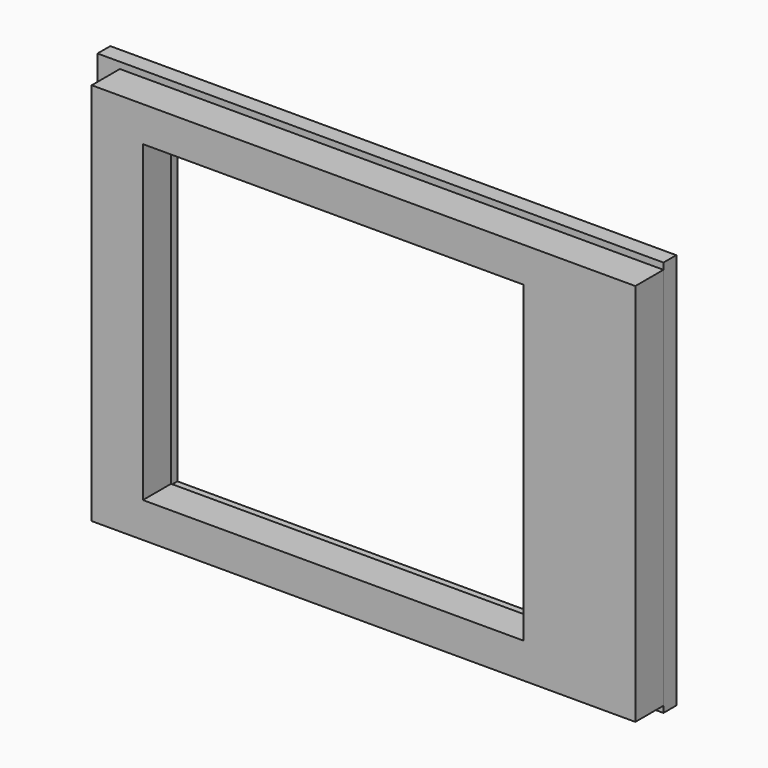
from build123d import *

# Parameters (mm, degrees)
F0_W     = 170
F0_H     = 120
F0_W_2   = 119
F0_H_2   = 98
F1_DEPTH = 11
F2_W     = 170
F2_H     = 124
F2_W_2   = 123
F2_H_2   = 102
F2_W_3   = 7
F3_DEPTH = 5


with BuildPart() as f1:
    # F0 (on Front) → F1 (new body)
    with BuildSketch(Plane.XZ):
        with Locations((9.5, 0)):
            Rectangle(F0_W, F0_H)
        Rectangle(F0_W_2, F0_H_2, mode=Mode.SUBTRACT)
    extrude(amount=F1_DEPTH)


with BuildPart() as f3:
    # F2 (on Front) → F3 (new body)
    with BuildSketch(Plane.XZ):
        with Locations((9.5, 0)):
            Rectangle(F2_W, F2_H)
        Rectangle(F2_W_2, F2_H_2, mode=Mode.SUBTRACT)
        with Locations((-79, 0)):
            Rectangle(F2_W_3, F2_H)
    extrude(amount=-F3_DEPTH)


solid = Compound([f1.part, f3.part])
